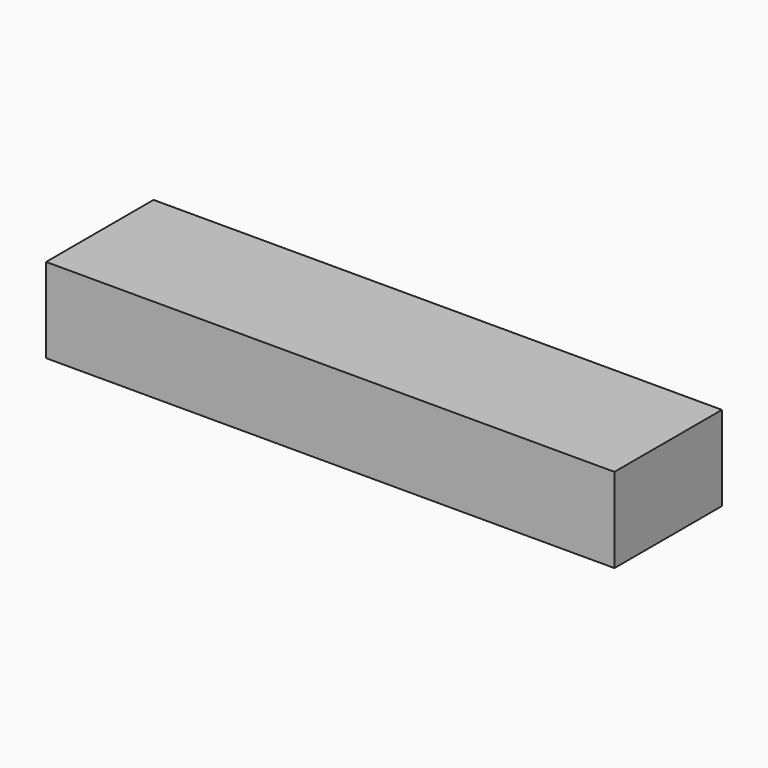
from build123d import *

# Parameters (mm, degrees)
SKETCH_W  = 55
SKETCH_H  = 13
PAD_DEPTH = 8.2


with BuildPart() as part:
    # Sketch → Pad (new body)
    with BuildSketch(Plane.XY):
        with Locations((27.5, 6.5)):
            Rectangle(SKETCH_W, SKETCH_H)
    extrude(amount=PAD_DEPTH)


solid = part.part
